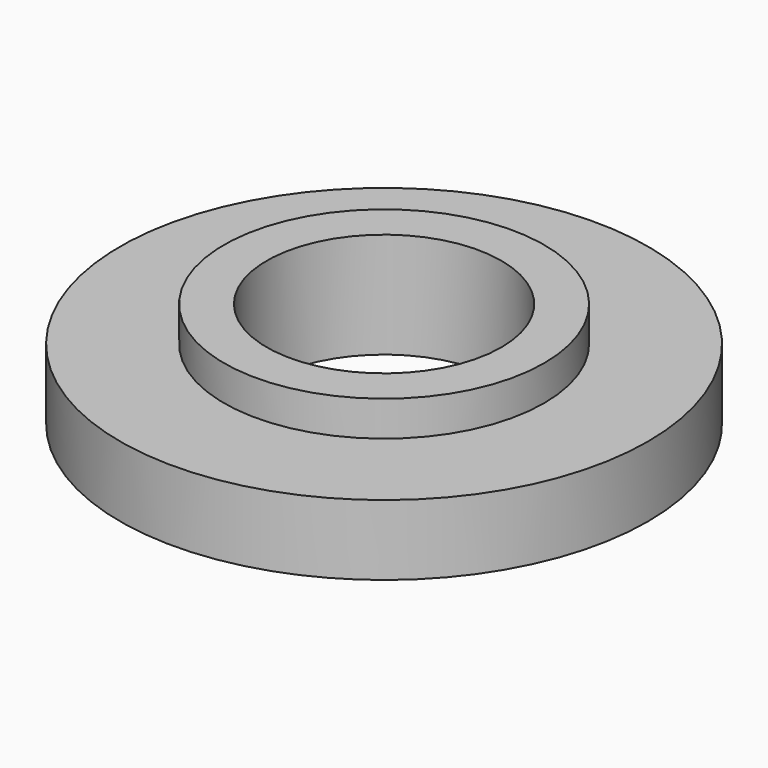
from build123d import *

# Parameters (mm, degrees)
F0_R     = 22.5
F0_R_2   = 10
F1_DEPTH = 6
F2_R     = 13.65
F2_R_2   = 10
F3_DEPTH = 3
F4_R     = 19.5
F4_R_2   = 11.5
F5_DEPTH = 4


with BuildPart() as f1:
    # F0 (on Top) → F1 (new body)
    with BuildSketch(Plane.XY):
        Circle(F0_R)
        Circle(F0_R_2, mode=Mode.SUBTRACT)
    extrude(amount=F1_DEPTH)

    # F2 (on face) → F3 (join)
    with BuildSketch(Plane.XY.offset(6)):
        Circle(F2_R)
        Circle(F2_R_2, mode=Mode.SUBTRACT)
    extrude(amount=F3_DEPTH)

    # F4 (on face) → F5 (cut)
    with BuildSketch(Plane.XY):
        Circle(F4_R)
        Circle(F4_R_2, mode=Mode.SUBTRACT)
    extrude(amount=F5_DEPTH, mode=Mode.SUBTRACT)


solid = f1.part
